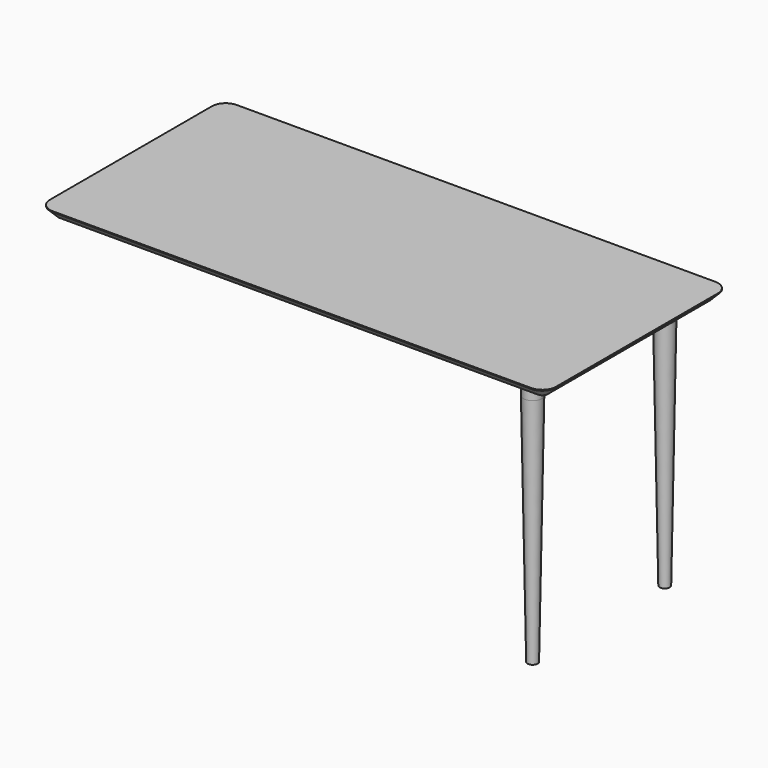
from build123d import *

# Parameters (mm, degrees)
F0_W     = 1397
F0_H     = 635
F1_DEPTH = 25.4
F2_R     = 38.1
F3_SIZE  = 22.86
F4_R     = 25.4
F5_DEPTH = 50.8
F6_R     = 25.2309345974
F7_DEPTH = 647.7
F7_TAPER = 1


with BuildPart() as f1:
    # F0 (on Top) → F1 (new body)
    with BuildSketch(Plane.XY):
        Rectangle(F0_W, F0_H)
    extrude(amount=F1_DEPTH)

    # F2
    f2_edges = [f1.edges().sort_by_distance(p)[0] for p in [
        (-698.5, -317.5, 12.7),
        (698.5, -317.5, 12.7),
        (698.5, 317.5, 12.7),
        (-698.5, 317.5, 12.7),
    ]]
    fillet(f2_edges, radius=F2_R)

    # F3
    f3_edges = [f1.edges().sort_by_distance(p)[0] for p in [
        (0, 317.5, 0),
    ]]
    chamfer(f3_edges, length=F3_SIZE)

    # F4 (on face) → F5 (join)
    with BuildSketch(Plane(origin=(0, 0, 0), x_dir=(1, 0, 0), z_dir=(0, 0, -1))):
        with Locations((592.5144553185, 227.909475565)):
            Circle(F4_R)
    extrude(amount=F5_DEPTH)

    # F6 (on face) → F7 (join)
    with BuildSketch(Plane(origin=(0, 0, -50.8), x_dir=(1, 0, 0), z_dir=(0, 0, -1))):
        with Locations((592.5144553185, 227.909475565)):
            Circle(F6_R)
    extrude(amount=F7_DEPTH, taper=F7_TAPER)

    # F8: F1 across plane


with BuildPart() as f1_1:
    add(f1.part)
    add(f1.part.mirror(Plane.XZ))


solid = f1_1.part
